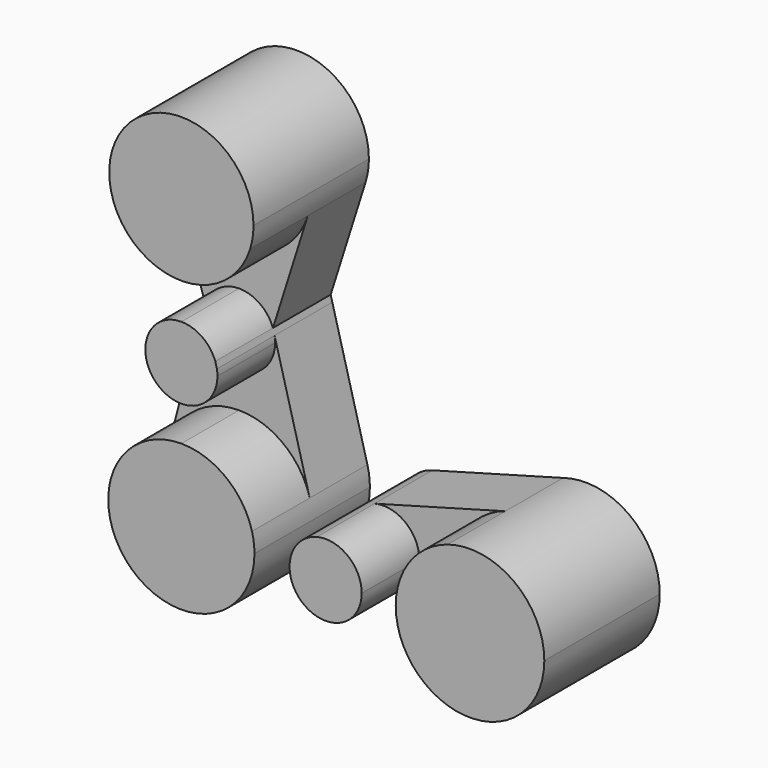
from build123d import *

# Parameters (mm, degrees)
F1_DEPTH = 50.8
F2_DEPTH = 25.4


with BuildPart() as f1:
    # F0 (on Front) → F1 (new body)
    with BuildSketch(Plane.XZ):
        with BuildLine():
            ThreePointArc((-143.8358277082, -3.6288881779), (-128.8277068485, 1.2792522613), (-119.6197407059, 14.1068355812))
            ThreePointArc((-119.6197407059, 14.1068355812), (-118.7335508209, 17.8935230004), (-118.4358277082, 21.7711118221))
            ThreePointArc((-118.4358277082, 21.7711118221), (-147.697549299, 46.875834612), (-168.0615841142, 14.1374543396))
            ThreePointArc((-168.0615841142, 14.1374543396), (-158.8568979089, 1.2887425737), (-143.8358277082, -3.6288881779))
        make_face()
    extrude(amount=F1_DEPTH)


with BuildPart() as f1b:
    # F0 (on Front) → F1, piece 2 (new body)
    with BuildSketch(Plane.XZ):
        with BuildLine():
            Line((-143.8358277082, -29.0288881779), (-143.8358277082, -41.7288881779))
            ThreePointArc((-143.8358277082, -41.7288881779), (-134.8555715872, -38.0091442989), (-131.1358277082, -29.0288881779))
            ThreePointArc((-131.1358277082, -29.0288881779), (-131.1831357698, -27.9337230252), (-131.3247075054, -26.8467169498))
            Line((-131.3247075054, -26.8467169498), (-131.8993329423, -24.6918278022))
            ThreePointArc((-131.8993329423, -24.6918278022), (-136.5485328319, -18.627670298), (-143.8358277082, -16.3288881779))
            Line((-143.8358277082, -16.3288881779), (-143.8358277082, -29.0288881779))
        make_face()
        with BuildLine():
            ThreePointArc((-156.3327125795, -26.7666175232), (-153.5831565042, -37.1701154406), (-143.8358277082, -41.7288881779))
            Line((-143.8358277082, -41.7288881779), (-143.8358277082, -29.0288881779))
            Line((-143.8358277082, -29.0288881779), (-143.8358277082, -16.3288881779))
            ThreePointArc((-143.8358277082, -16.3288881779), (-151.1578861803, -18.6521131619), (-155.8010802151, -24.7718079052))
            Line((-155.8010802151, -24.7718079052), (-156.3327125795, -26.7666175232))
        make_face()
    extrude(amount=F1_DEPTH)


with BuildPart() as f1c:
    # F0 (on Front) → F1, piece 3 (new body)
    with BuildSketch(Plane.XZ):
        with BuildLine():
            Line((-93.0358277082, -79.8288881779), (-105.7358277082, -79.8288881779))
            ThreePointArc((-105.7358277082, -79.8288881779), (-100.8386115233, -89.8491957946), (-89.9237702697, -92.1416903975))
            ThreePointArc((-89.9237702697, -92.1416903975), (-83.0155200915, -87.631671993), (-80.3358277082, -79.8288881779))
            Line((-80.3358277082, -79.8288881779), (-93.0358277082, -79.8288881779))
        make_face()
        with BuildLine():
            ThreePointArc((-96.1040924171, -67.505100137), (-103.0422496912, -72.008305137), (-105.7358277082, -79.8288881779))
            Line((-105.7358277082, -79.8288881779), (-93.0358277082, -79.8288881779))
            Line((-93.0358277082, -79.8288881779), (-80.3358277082, -79.8288881779))
            ThreePointArc((-80.3358277082, -79.8288881779), (-85.2152446674, -69.8224661949), (-96.1040924171, -67.505100137))
        make_face()
    extrude(amount=F1_DEPTH)


with BuildPart() as f1d:
    # F0 (on Front) → F1, piece 4 (new body)
    with BuildSketch(Plane.XZ):
        with BuildLine():
            ThreePointArc((-16.0361095198, -79.8288881779), (-26.7407291226, -58.7247316021), (-50.0925403314, -54.8949510746))
            ThreePointArc((-50.0925403314, -54.8949510746), (-63.295997284, -64.3777765923), (-68.3475718968, -79.8288881779))
            ThreePointArc((-68.3475718968, -79.8288881779), (-63.295997284, -95.2799997635), (-50.0925403314, -104.7628252812))
            ThreePointArc((-50.0925403314, -104.7628252812), (-26.7407291226, -100.9330447536), (-16.0361095198, -79.8288881779))
        make_face()
    extrude(amount=F1_DEPTH)


with BuildPart() as f1e:
    # F0 (on Front) → F1, piece 5 (new body)
    with BuildSketch(Plane.XZ):
        with BuildLine():
            Line((-118.0958620819, -79.8288881779), (-143.8358277082, -79.8288881779))
            Line((-143.8358277082, -79.8288881779), (-143.8358277082, -54.0889225515))
            ThreePointArc((-143.8358277082, -54.0889225515), (-159.5190585492, -59.4185451911), (-168.7076651652, -73.2003489753))
            ThreePointArc((-168.7076651652, -73.2003489753), (-160.1093223522, -99.7717867265), (-132.3532357975, -102.8657263606))
            ThreePointArc((-132.3532357975, -102.8657263606), (-121.9485328602, -93.3748157829), (-118.0958620819, -79.8288881779))
        make_face()
        with BuildLine():
            Line((-143.8358277082, -54.0889225515), (-143.8358277082, -79.8288881779))
            Line((-143.8358277082, -79.8288881779), (-118.0958620819, -79.8288881779))
            ThreePointArc((-118.0958620819, -79.8288881779), (-118.314056375, -76.4844871163), (-118.9649400459, -73.196786148))
            ThreePointArc((-118.9649400459, -73.196786148), (-128.1540588003, -59.4174219306), (-143.8358277082, -54.0889225515))
        make_face()
    extrude(amount=F1_DEPTH)


with BuildPart() as f2:
    # F0 (on Front) → F2 (new body)
    with BuildSketch(Plane.XZ):
        with BuildLine():
            ThreePointArc((-155.8010802151, -24.7718079052), (-151.1578861803, -18.6521131619), (-143.8358277082, -16.3288881779))
            Line((-143.8358277082, -16.3288881779), (-143.8358277082, -3.6288881779))
            ThreePointArc((-143.8358277082, -3.6288881779), (-158.8568979089, 1.2887425737), (-168.0615841142, 14.1374543396))
            Line((-168.0615841142, 14.1374543396), (-155.8010802151, -24.7718079052))
        make_face()
        with BuildLine():
            ThreePointArc((-143.8358277082, -16.3288881779), (-136.5485328319, -18.627670298), (-131.8993329423, -24.6918278022))
            Line((-131.8993329423, -24.6918278022), (-119.6197407059, 14.1068355812))
            ThreePointArc((-119.6197407059, 14.1068355812), (-128.8277068485, 1.2792522613), (-143.8358277082, -3.6288881779))
            Line((-143.8358277082, -3.6288881779), (-143.8358277082, -16.3288881779))
        make_face()
    extrude(amount=F2_DEPTH)


with BuildPart() as f2b:
    # F0 (on Front) → F2, piece 2 (new body)
    with BuildSketch(Plane.XZ):
        with BuildLine():
            ThreePointArc((-168.7076651652, -73.2003489753), (-159.5190585492, -59.4185451911), (-143.8358277082, -54.0889225515))
            Line((-143.8358277082, -54.0889225515), (-143.8358277082, -41.7288881779))
            ThreePointArc((-143.8358277082, -41.7288881779), (-153.5831565042, -37.1701154406), (-156.3327125795, -26.7666175232))
            Line((-156.3327125795, -26.7666175232), (-168.7076651652, -73.2003489753))
        make_face()
        with BuildLine():
            Line((-143.8358277082, -41.7288881779), (-143.8358277082, -54.0889225515))
            ThreePointArc((-143.8358277082, -54.0889225515), (-128.1540588003, -59.4174219306), (-118.9649400459, -73.196786148))
            Line((-118.9649400459, -73.196786148), (-131.3247075054, -26.8467169498))
            ThreePointArc((-131.3247075054, -26.8467169498), (-131.1831357698, -27.9337230252), (-131.1358277082, -29.0288881779))
            ThreePointArc((-131.1358277082, -29.0288881779), (-134.8555715872, -38.0091442989), (-143.8358277082, -41.7288881779))
        make_face()
    extrude(amount=F2_DEPTH)


with BuildPart() as f2c:
    # F0 (on Front) → F2, piece 3 (new body)
    with BuildSketch(Plane.XZ):
        with BuildLine():
            Line((-50.0925403314, -54.8949510746), (-96.1040924171, -67.505100137))
            ThreePointArc((-96.1040924171, -67.505100137), (-85.2152446674, -69.8224661949), (-80.3358277082, -79.8288881779))
            Line((-80.3358277082, -79.8288881779), (-68.3475718968, -79.8288881779))
            ThreePointArc((-68.3475718968, -79.8288881779), (-63.295997284, -64.3777765923), (-50.0925403314, -54.8949510746))
        make_face()
        with BuildLine():
            ThreePointArc((-80.3358277082, -79.8288881779), (-83.0155200915, -87.631671993), (-89.9237702697, -92.1416903975))
            Line((-89.9237702697, -92.1416903975), (-50.0925403314, -104.7628252812))
            ThreePointArc((-50.0925403314, -104.7628252812), (-63.295997284, -95.2799997635), (-68.3475718968, -79.8288881779))
            Line((-68.3475718968, -79.8288881779), (-80.3358277082, -79.8288881779))
        make_face()
    extrude(amount=F2_DEPTH)


solid = Compound([f1.part, f1b.part, f1c.part, f1d.part, f1e.part, f2.part, f2b.part, f2c.part])
